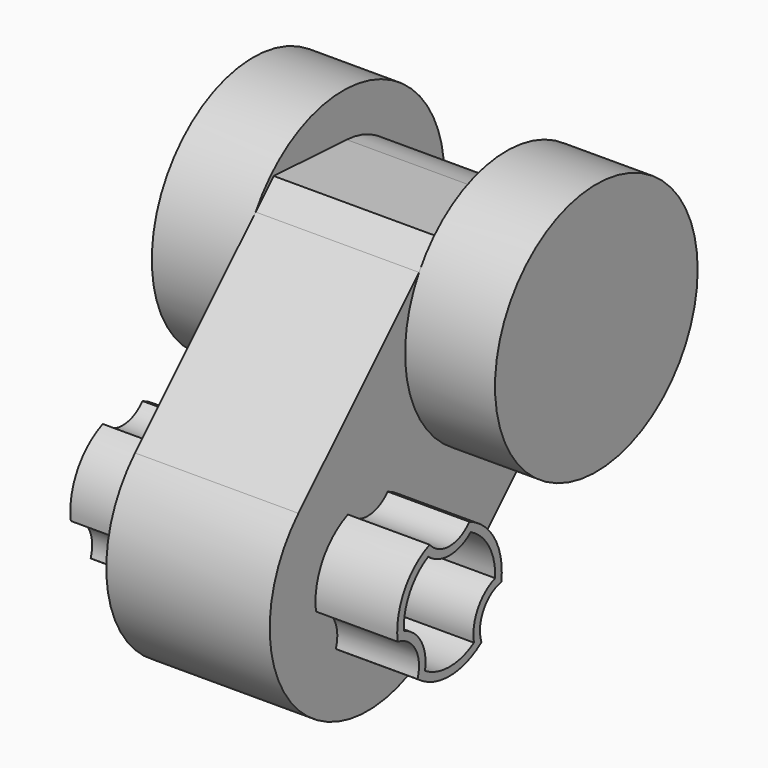
from build123d import *

# Parameters (mm, degrees)
F1_DEPTH = 100
F2_START = 100
F2_DEPTH = 110
F3_DEPTH = 200


with BuildPart() as f1:
    # F0 (on Right) → F1 (new body)
    with BuildSketch(Plane.YZ):
        with BuildLine():
            Line((78.452614635, 290.584648991), (-106.066017178, 106.066017178))
            ThreePointArc((-106.066017178, 106.066017178), (-106.066017178, -106.066017178), (106.066017178, -106.066017178))
            Line((106.066017178, -106.066017178), (290.584648991, 78.452614635))
            ThreePointArc((290.584648991, 78.452614635), (102.530483272, 102.530483272), (78.452614635, 290.584648991))
        make_face()
        with BuildLine():
            ThreePointArc((-79.2845640336, -10.6751068378), (-69.2820323028, 40), (-30.3973683071, 74))
            ThreePointArc((-30.3973683071, 74), (0, 60), (30.3973683071, 74))
            ThreePointArc((30.3973683071, 74), (69.2820323028, 40), (79.2845640336, -10.6751068378))
            ThreePointArc((79.2845640336, -10.6751068378), (51.9615242271, -30), (48.8871957265, -63.3248931622))
            ThreePointArc((48.8871957265, -63.3248931622), (0, -80), (-48.8871957265, -63.3248931622))
            ThreePointArc((-48.8871957265, -63.3248931622), (-51.9615242271, -30), (-79.2845640336, -10.6751068378))
        make_face(mode=Mode.SUBTRACT)
        with BuildLine():
            Line((106.066017178, 318.1980515339), (78.452614635, 290.584648991))
            ThreePointArc((78.452614635, 290.584648991), (102.530483272, 102.530483272), (290.584648991, 78.452614635))
            Line((290.584648991, 78.452614635), (318.1980515339, 106.066017178))
            Line((318.1980515339, 106.066017178), (311.9771141045, 217.6962099463))
            ThreePointArc((311.9771141045, 217.6962099463), (282.8427124746, 282.8427124746), (217.6962099463, 311.9771141045))
            Line((217.6962099463, 311.9771141045), (106.066017178, 318.1980515339))
        make_face()
        with BuildLine():
            ThreePointArc((30.3973683071, 74), (0, 60), (-30.3973683071, 74))
            ThreePointArc((-30.3973683071, 74), (-69.2820323028, 40), (-79.2845640336, -10.6751068378))
            ThreePointArc((-79.2845640336, -10.6751068378), (-51.9615242271, -30), (-48.8871957265, -63.3248931622))
            ThreePointArc((-48.8871957265, -63.3248931622), (0, -80), (48.8871957265, -63.3248931622))
            ThreePointArc((48.8871957265, -63.3248931622), (51.9615242271, -30), (79.2845640336, -10.6751068378))
            ThreePointArc((79.2845640336, -10.6751068378), (69.2820323028, 40), (30.3973683071, 74))
        make_face()
        with BuildLine():
            ThreePointArc((-69.9416518439, -2.8575054411), (-60.6217782649, 35), (-32.4961536185, 62))
            ThreePointArc((-32.4961536185, 62), (0, 50), (32.4961536185, 62))
            ThreePointArc((32.4961536185, 62), (60.6217782649, 35), (69.9416518439, -2.8575054411))
            ThreePointArc((69.9416518439, -2.8575054411), (43.3012701892, -25), (37.4454982254, -59.1424945589))
            ThreePointArc((37.4454982254, -59.1424945589), (0, -70), (-37.4454982254, -59.1424945589))
            ThreePointArc((-37.4454982254, -59.1424945589), (-43.3012701892, -25), (-69.9416518439, -2.8575054411))
        make_face(mode=Mode.SUBTRACT)
        with BuildLine():
            ThreePointArc((32.4961536185, 62), (0, 50), (-32.4961536185, 62))
            ThreePointArc((-32.4961536185, 62), (-60.6217782649, 35), (-69.9416518439, -2.8575054411))
            ThreePointArc((-69.9416518439, -2.8575054411), (-43.3012701892, -25), (-37.4454982254, -59.1424945589))
            ThreePointArc((-37.4454982254, -59.1424945589), (0, -70), (37.4454982254, -59.1424945589))
            ThreePointArc((37.4454982254, -59.1424945589), (43.3012701892, -25), (69.9416518439, -2.8575054411))
            ThreePointArc((69.9416518439, -2.8575054411), (60.6217782649, 35), (32.4961536185, 62))
        make_face()
    extrude(amount=F1_DEPTH)

    # F0 (on Right) → F2 (join)
    with BuildSketch(Plane.YZ.offset(F2_START)):
        with BuildLine():
            Line((106.066017178, 318.1980515339), (78.452614635, 290.584648991))
            ThreePointArc((78.452614635, 290.584648991), (102.530483272, 102.530483272), (290.584648991, 78.452614635))
            Line((290.584648991, 78.452614635), (318.1980515339, 106.066017178))
            Line((318.1980515339, 106.066017178), (311.9771141045, 217.6962099463))
            ThreePointArc((311.9771141045, 217.6962099463), (282.8427124746, 282.8427124746), (217.6962099463, 311.9771141045))
            Line((217.6962099463, 311.9771141045), (106.066017178, 318.1980515339))
        make_face()
        with BuildLine():
            ThreePointArc((367.132034356, 212.132034356), (252.7810807362, 361.7069487914), (78.452614635, 290.584648991))
            Line((78.452614635, 290.584648991), (106.066017178, 318.1980515339))
            Line((106.066017178, 318.1980515339), (217.6962099463, 311.9771141045))
            ThreePointArc((217.6962099463, 311.9771141045), (282.8427124746, 282.8427124746), (311.9771141045, 217.6962099463))
            Line((311.9771141045, 217.6962099463), (318.1980515339, 106.066017178))
            Line((318.1980515339, 106.066017178), (290.584648991, 78.452614635))
            ThreePointArc((290.584648991, 78.452614635), (346.6406869929, 135.1098144075), (367.132034356, 212.132034356))
        make_face()
    extrude(amount=F2_DEPTH)

    # F0 (on Right) → F3 (join)
    with BuildSketch(Plane.YZ):
        with BuildLine():
            ThreePointArc((30.3973683071, 74), (0, 60), (-30.3973683071, 74))
            ThreePointArc((-30.3973683071, 74), (-69.2820323028, 40), (-79.2845640336, -10.6751068378))
            ThreePointArc((-79.2845640336, -10.6751068378), (-51.9615242271, -30), (-48.8871957265, -63.3248931622))
            ThreePointArc((-48.8871957265, -63.3248931622), (0, -80), (48.8871957265, -63.3248931622))
            ThreePointArc((48.8871957265, -63.3248931622), (51.9615242271, -30), (79.2845640336, -10.6751068378))
            ThreePointArc((79.2845640336, -10.6751068378), (69.2820323028, 40), (30.3973683071, 74))
        make_face()
        with BuildLine():
            ThreePointArc((-69.9416518439, -2.8575054411), (-60.6217782649, 35), (-32.4961536185, 62))
            ThreePointArc((-32.4961536185, 62), (0, 50), (32.4961536185, 62))
            ThreePointArc((32.4961536185, 62), (60.6217782649, 35), (69.9416518439, -2.8575054411))
            ThreePointArc((69.9416518439, -2.8575054411), (43.3012701892, -25), (37.4454982254, -59.1424945589))
            ThreePointArc((37.4454982254, -59.1424945589), (0, -70), (-37.4454982254, -59.1424945589))
            ThreePointArc((-37.4454982254, -59.1424945589), (-43.3012701892, -25), (-69.9416518439, -2.8575054411))
        make_face(mode=Mode.SUBTRACT)
    extrude(amount=F3_DEPTH)

    # F4: F1 across face


with BuildPart() as f1_1:
    add(f1.part)
    add(f1.part.mirror(Plane.YZ))


solid = f1_1.part
